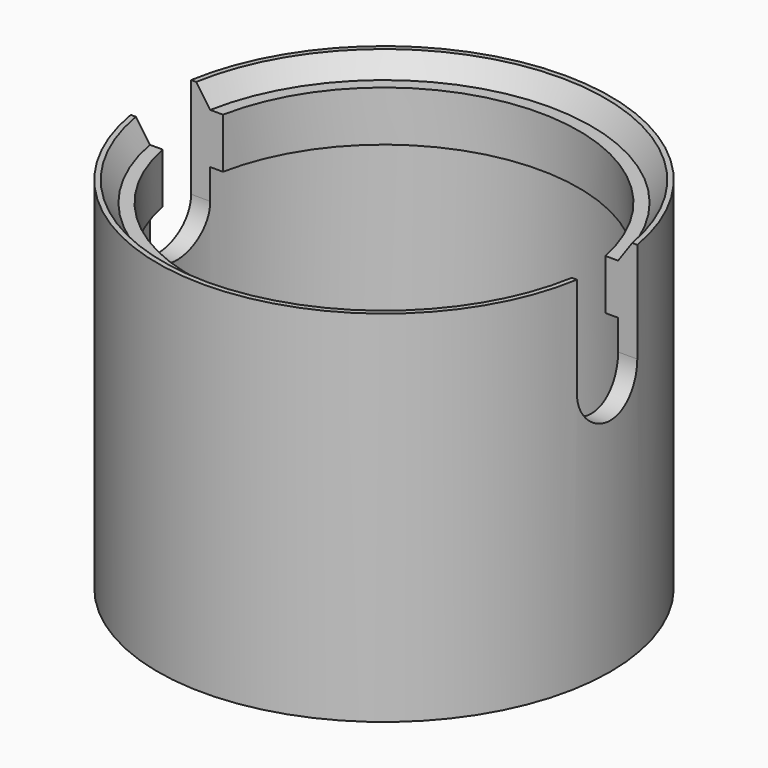
from build123d import *

# Parameters (mm, degrees)
F3_DEPTH      = 9.001
F3_DEPTH_BACK = 25


with BuildPart() as f1:
    # F0 (on Front) → F1 (revolve)
    with BuildSketch(Plane.XZ):
        Polygon((8.25, 11.5), (8.25, 0.1), (8.35, 0), (9, 0), (9, 14.3), (8.8, 14.3), (8.25, 13.5), (7.75, 13.5), (7.75, 11.5), align=None)
    revolve(axis=Axis((0, 0, 7.15), (0, 0, -1)))

    # F2 (on Right) → F3 (cut, two sides)
    with BuildSketch(Plane.YZ) as f3_sk:
        with BuildLine():
            Line((-1.5, 14.3), (-1.5, 10.3))
            ThreePointArc((-1.5, 10.3), (0, 8.8), (1.5, 10.3))
            Line((1.5, 10.3), (1.5, 14.3))
            Line((1.5, 14.3), (-1.5, 14.3))
        make_face()
    extrude(amount=-F3_DEPTH, mode=Mode.SUBTRACT)
    extrude(f3_sk.sketch, amount=F3_DEPTH_BACK, mode=Mode.SUBTRACT)


solid = f1.part
